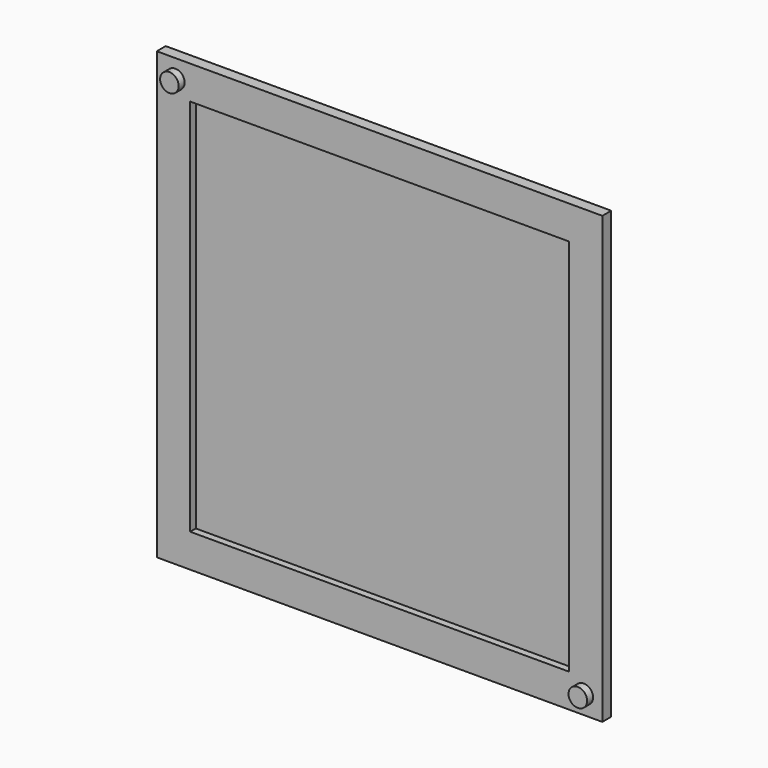
from build123d import *

# Parameters (mm, degrees)
F0_W     = 120
F0_H     = 120
F0_W_2   = 102
F0_H_2   = 102
F1_DEPTH = 3
F2_DEPTH = 1.1
F3_R     = 2.5
F4_DEPTH = 2


with BuildPart() as f1:
    # F0 (on Front) → F1 (new body)
    with BuildSketch(Plane.XZ):
        Rectangle(F0_W, F0_H)
        Rectangle(F0_W_2, F0_H_2, mode=Mode.SUBTRACT)
    extrude(amount=F1_DEPTH)

    # F0 (on Front) → F2 (join)
    with BuildSketch(Plane.XZ):
        Rectangle(F0_W_2, F0_H_2)
    extrude(amount=F2_DEPTH)

    # F3 (on face) → F4 (join)
    with BuildSketch(Plane.XZ.offset(3)):
        with Locations((-55, 55)):
            Circle(F3_R)
        with Locations((55, -55)):
            Circle(F3_R)
    extrude(amount=F4_DEPTH)


solid = f1.part
